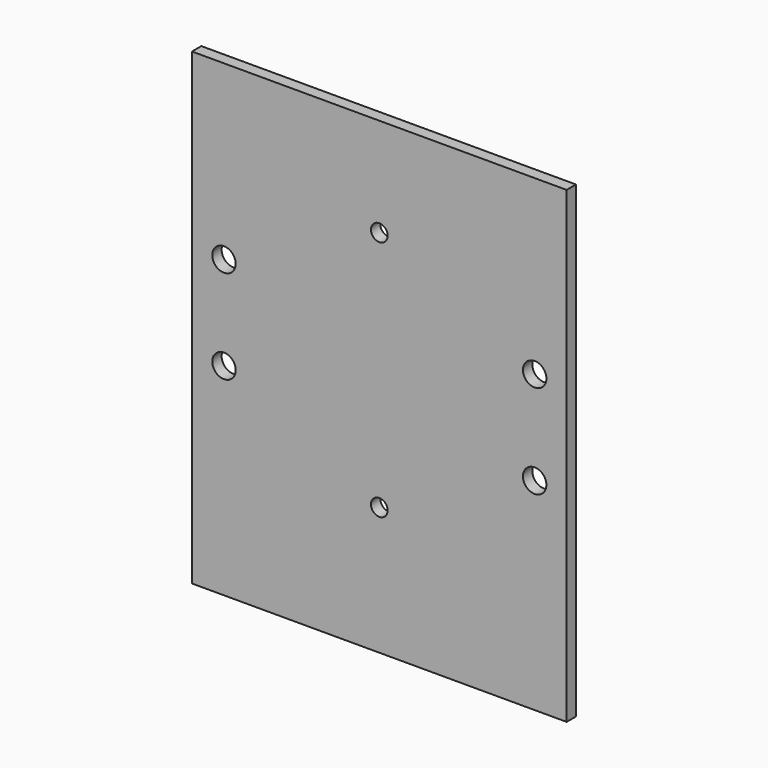
from build123d import *

# Parameters (mm, degrees)
F0_W     = 101.6
F0_H     = 127
F1_DEPTH = 3.175
F2_R     = 2.263003
F3_DEPTH = 3.176
F4_R     = 3.175
F5_DEPTH = 3.176


with BuildPart() as f1:
    # F0 (on Front) → F1 (new body)
    with BuildSketch(Plane.XZ):
        with Locations((-50.659383, 43.110808)):
            Rectangle(F0_W, F0_H)
    extrude(amount=F1_DEPTH)

    # F2 (on face) → F3 (cut, through all)
    with BuildSketch(Plane.XZ.offset(3.175)):
        with Locations((-50.659383, 79.876246)):
            Circle(F2_R)
        with Locations((-50.659383, 14.293446)):
            Circle(F2_R)
    extrude(amount=-F3_DEPTH, mode=Mode.SUBTRACT)

    # F4 (on face) → F5 (cut, through all)
    with BuildSketch(Plane.XZ.offset(3.175)):
        with Locations((-92.782468, 59.784846)):
            Circle(F4_R)
        with Locations((-92.782468, 34.384846)):
            Circle(F4_R)
        with Locations((-8.536297, 34.384846)):
            Circle(F4_R)
        with Locations((-8.536297, 59.784846)):
            Circle(F4_R)
    extrude(amount=-F5_DEPTH, mode=Mode.SUBTRACT)


solid = f1.part
